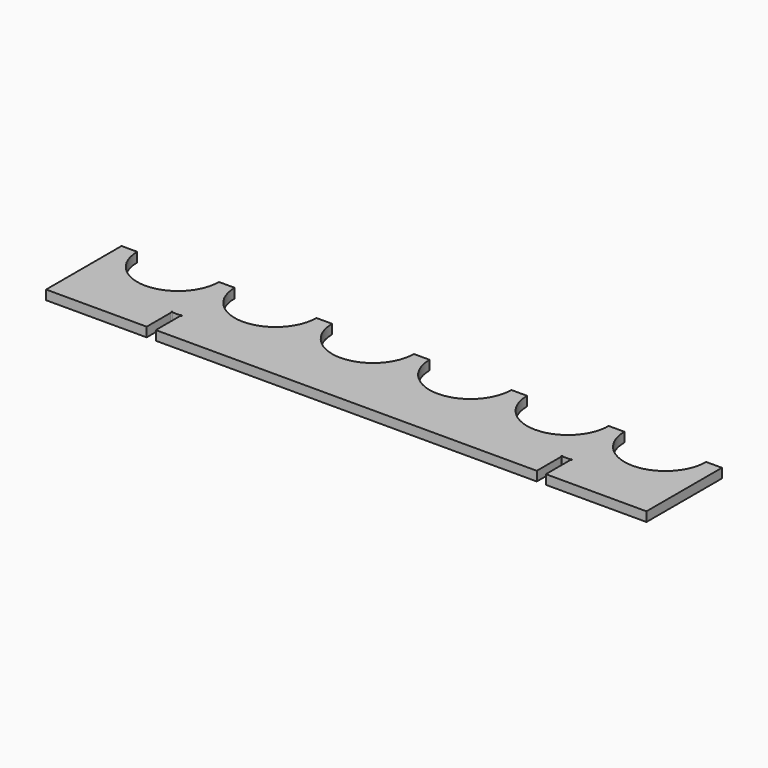
from build123d import *

# Parameters (mm, degrees)
F1_DEPTH = 3


with BuildPart() as f1:
    # F0 (on Top) → F1 (new body)
    with BuildSketch(Plane.XY):
        with BuildLine():
            Line((95.5, 0), (90.5, 0))
            ThreePointArc((90.5, 0), (77.5, -13), (64.5, 0))
            Line((64.5, 0), (59.5, 0))
            ThreePointArc((59.5, 0), (46.5, -13), (33.5, 0))
            Line((33.5, 0), (28.5, 0))
            ThreePointArc((28.5, 0), (15.5, -13), (2.5, 0))
            Line((2.5, 0), (-2.5, 0))
            ThreePointArc((-2.5, 0), (-15.5, -13), (-28.5, 0))
            Line((-28.5, 0), (-33.5, 0))
            ThreePointArc((-33.5, 0), (-46.5, -13), (-59.5, 0))
            Line((-59.5, 0), (-64.5, 0))
            ThreePointArc((-64.5, 0), (-77.5, -13), (-90.5, 0))
            Line((-90.5, 0), (-95.5, 0))
            Line((-95.5, 0), (-95.5, -30))
            Line((-95.5, -30), (-63.5, -30))
            Line((-63.5, -30), (-63.5, -20.25))
            ThreePointArc((-63.5, -20.25), (-63.676777, -19.823223), (-63.25, -20))
            Line((-63.25, -20), (-60.85, -20))
            ThreePointArc((-60.85, -20), (-60.6, -19.75), (-60.35, -20))
            ThreePointArc((-60.35, -20), (-60.423223, -20.176777), (-60.6, -20.25))
            Line((-60.6, -20.25), (-60.6, -30))
            Line((-60.6, -30), (60.6, -30))
            Line((60.6, -30), (60.6, -20.25))
            ThreePointArc((60.6, -20.25), (60.423223, -19.823223), (60.85, -20))
            Line((60.85, -20), (63.25, -20))
            ThreePointArc((63.25, -20), (63.5, -19.75), (63.75, -20))
            ThreePointArc((63.75, -20), (63.676777, -20.176777), (63.5, -20.25))
            Line((63.5, -20.25), (63.5, -30))
            Line((63.5, -30), (95.5, -30))
            Line((95.5, -30), (95.5, 0))
        make_face()
    extrude(amount=F1_DEPTH)


solid = f1.part
